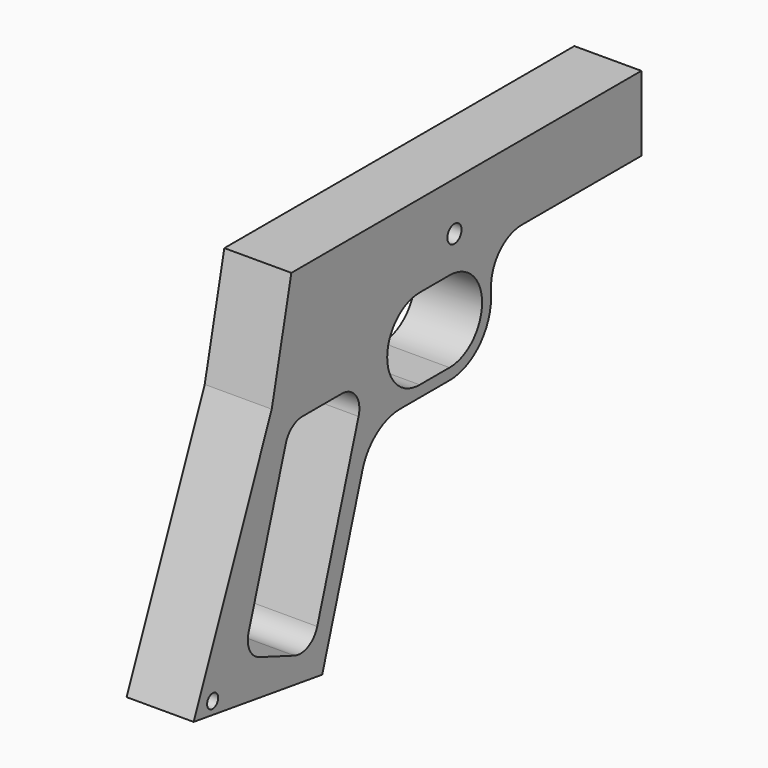
from build123d import *

# Parameters (mm, degrees)
F0_R     = 1.9939
F0_R_2   = 2.5527
F1_DEPTH = 19.3548


with BuildPart() as f1:
    # F0 (on Right) → F1 (new body)
    with BuildSketch(Plane.YZ):
        with BuildLine():
            Line((-94.105624, -85.820904), (-47.715487, -92.671203))
            Line((-47.715487, -92.671203), (-33.170931, -46.541766))
            ThreePointArc((-33.170931, -46.541766), (-27.993036, -39.316023), (-19.5447, -36.5506))
            Line((-19.5447, -36.5506), (-1.75895, -36.5506))
            ThreePointArc((-1.75895, -36.5506), (8.837752, -32.161302), (13.22705, -21.5646))
            Line((13.22705, -21.5646), (13.22705, -18.7325))
            ThreePointArc((13.22705, -18.7325), (16.481826, -10.874776), (24.33955, -7.62))
            Line((24.33955, -7.62), (67.46875, -7.62))
            Line((67.46875, -7.62), (67.46875, 13.9827))
            Line((67.46875, 13.9827), (-58.842815, 13.9827))
            Line((-58.842815, 13.9827), (-65.926929, -17.791517))
            Line((-65.926929, -17.791517), (-94.105624, -85.820904))
        make_face()
        with Locations((-87.25597, -83.289162)):
            Circle(F0_R, mode=Mode.SUBTRACT)
        with BuildLine():
            ThreePointArc((-60.850931, -28.557818), (-58.549645, -25.346377), (-54.794829, -24.1173))
            Line((-54.794829, -24.1173), (-40.646239, -24.1173))
            ThreePointArc((-40.646239, -24.1173), (-35.525315, -26.712484), (-34.590136, -32.376782))
            Line((-34.590136, -32.376782), (-49.510138, -79.696982))
            ThreePointArc((-49.510138, -79.696982), (-52.789308, -83.498117), (-57.804063, -83.730113))
            Line((-57.804063, -83.730113), (-70.451042, -78.967613))
            ThreePointArc((-70.451042, -78.967613), (-73.923837, -75.801932), (-74.269322, -71.115518))
            Line((-74.269322, -71.115518), (-60.850931, -28.557818))
        make_face(mode=Mode.SUBTRACT)
        with BuildLine():
            ThreePointArc((-12.52855, -33.2994), (-24.26335, -21.5646), (-12.52855, -9.8298))
            Line((-12.52855, -9.8298), (-1.75895, -9.8298))
            ThreePointArc((-1.75895, -9.8298), (9.97585, -21.5646), (-1.75895, -33.2994))
            Line((-1.75895, -33.2994), (-12.52855, -33.2994))
        make_face(mode=Mode.SUBTRACT)
        Circle(F0_R_2, mode=Mode.SUBTRACT)
    extrude(amount=F1_DEPTH)


solid = f1.part
